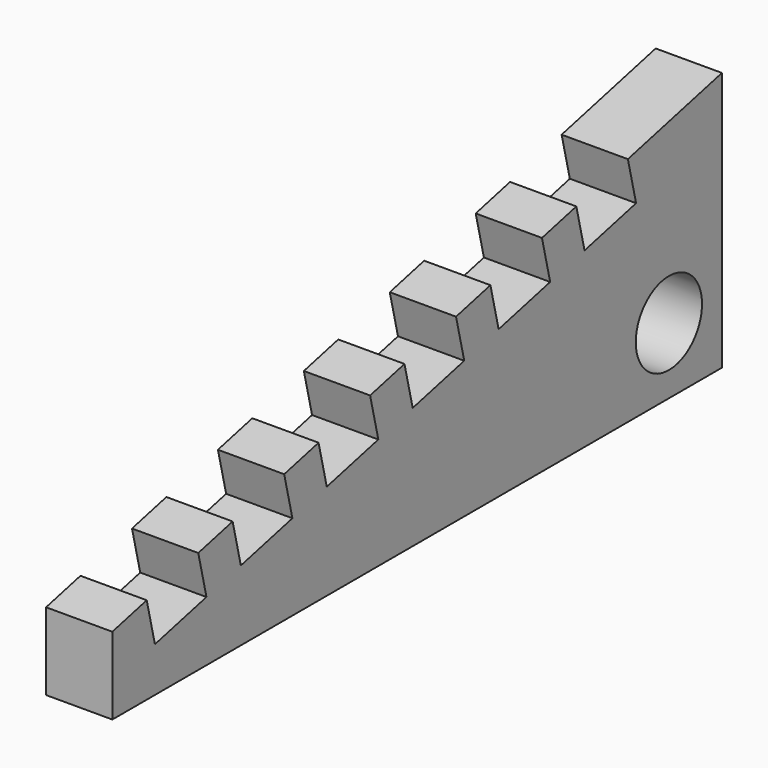
from build123d import *

# Parameters (mm, degrees)
F1_DEPTH = 30.48
F2_R     = 19.05
F3_DEPTH = 30.48


with BuildPart() as f1:
    # F0 (on Right) → F1 (new body)
    with BuildSketch(Plane.YZ):
        Polygon((-163.618337, 35.56), (-163.618337, 0), (186.901663, 0), (186.901663, 119.38), (132.82371, 106.448315), (137.549597, 86.685512), (107.905393, 79.596681), (103.179505, 99.359484), (83.416702, 94.633596), (88.14259, 74.870793), (58.498385, 67.781962), (53.772497, 87.544765), (34.009694, 82.818877), (38.735582, 63.056074), (9.091377, 55.967242), (4.36549, 75.730045), (-15.397313, 71.004158), (-10.671426, 51.241355), (-40.31563, 44.152523), (-45.041518, 63.915326), (-64.804321, 59.189438), (-60.078433, 39.426635), (-89.722638, 32.337804), (-94.448526, 52.100607), (-114.211329, 47.374719), (-109.485441, 27.611916), (-139.129646, 20.523085), (-143.855533, 40.285888), align=None)
    extrude(amount=F1_DEPTH)

    # F2 (on face) → F3 (cut, through all)
    with BuildSketch(Plane(origin=(0, 0, 0), x_dir=(0, -1, 0), z_dir=(-1, 0, 0))):
        with Locations((-156.421663, 30.48)):
            Circle(F2_R)
    extrude(amount=-F3_DEPTH, mode=Mode.SUBTRACT)


solid = f1.part
